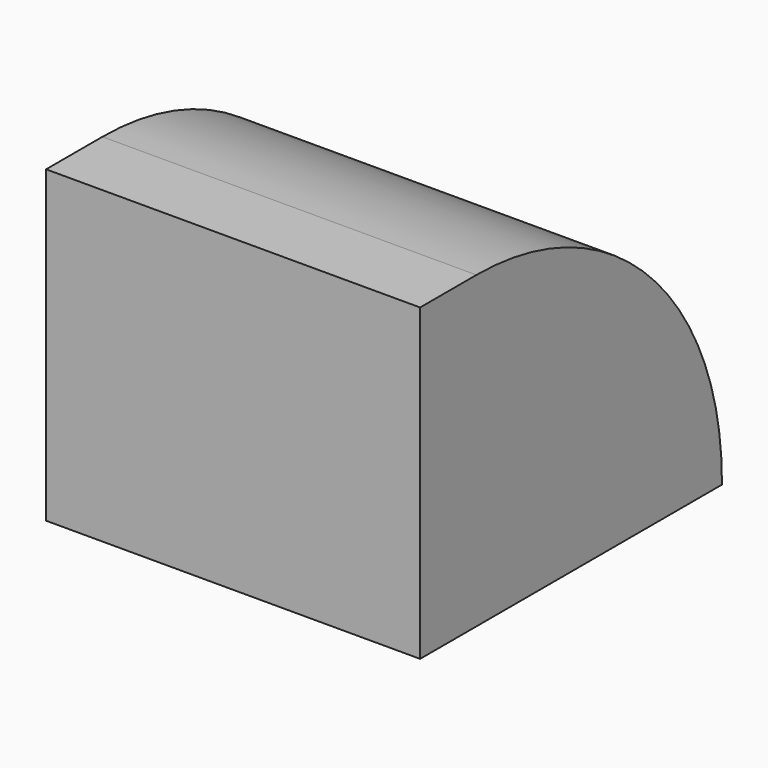
from build123d import *

# Parameters (mm, degrees)
F0_W     = 101.522006
F0_H     = 83.972574
F1_DEPTH = 102.4
F2_R     = 83.290368


with BuildPart() as f1:
    # F0 (on Front) → F1 (new body)
    with BuildSketch(Plane.XZ):
        Rectangle(F0_W, F0_H)
    extrude(amount=-F1_DEPTH)

    # F2
    f2_edges = [f1.edges().sort_by_distance(p)[0] for p in [
        (0, 102.4, 41.986287),
    ]]
    fillet(f2_edges, radius=F2_R)


solid = f1.part
